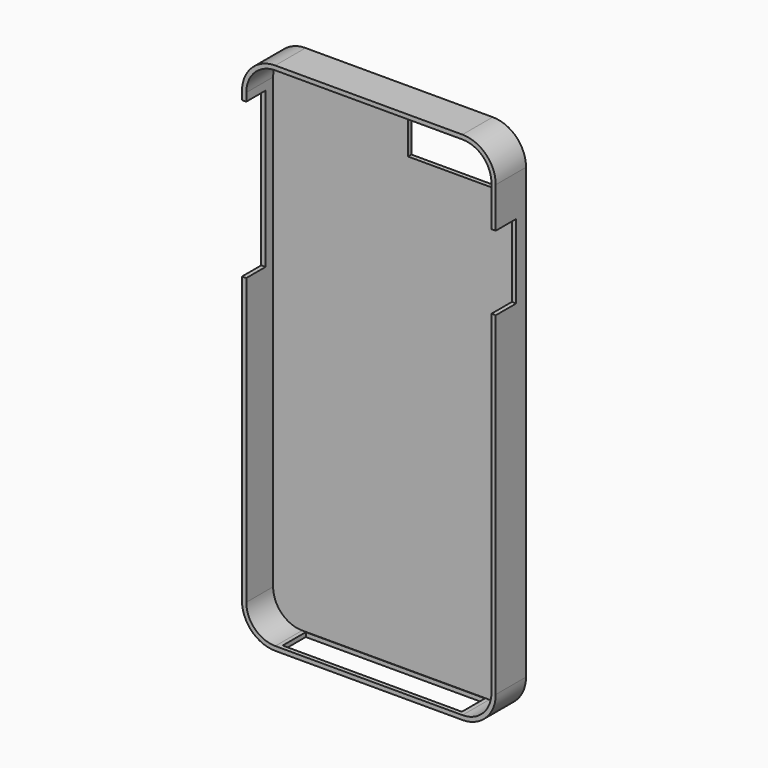
from build123d import *

# Parameters (mm, degrees)
F0_W      = 68.1
F0_H      = 138.3
F1_DEPTH  = 5.08
F2_R      = 8.93259
F3_T      = -1.15
F4_W      = 24.09836
F4_H      = 13.196725
F5_DEPTH  = 12.5
F6_W      = 48.097777
F6_H      = 7.753484
F7_DEPTH  = 12.5
F8_W      = 10.118616
F8_H      = 41.666549
F9_DEPTH  = 12.5
F10_W     = 6.856616
F10_H     = 19.977162
F11_DEPTH = 12.5


with BuildPart() as f1:
    # F0 (on Front) → F1 (new body, symmetric)
    with BuildSketch(Plane.XZ):
        Rectangle(F0_W, F0_H)
    extrude(amount=F1_DEPTH, both=True)

    # F2
    f2_edges = [f1.edges().sort_by_distance(p)[0] for p in [
        (-34.05, 0, 69.15),
        (34.05, 0, 69.15),
        (34.05, 0, -69.15),
        (-34.05, 0, -69.15),
    ]]
    fillet(f2_edges, radius=F2_R)

    # F3
    f3_openings = [f1.faces().sort_by_distance(p)[0] for p in [
        (0, -5.08, 0),
    ]]
    offset(amount=F3_T, openings=f3_openings)

    # F4 (on face) → F5 (cut, symmetric)
    with BuildSketch(Plane.XZ):
        with Locations((15.348363, 59.815576)):
            Rectangle(F4_W, F4_H)
    extrude(amount=F5_DEPTH, both=True, mode=Mode.SUBTRACT)

    # F6 (on face) → F7 (cut, symmetric)
    with BuildSketch(Plane(origin=(0, 0, -69.15), x_dir=(1, 0, 0), z_dir=(0, 0, -1))):
        with Locations((0.003194, 0.064824)):
            Rectangle(F6_W, F6_H)
        with Locations((0.003194, 0.064824)):
            Rectangle(F6_W, F6_H)
    extrude(amount=F7_DEPTH, both=True, mode=Mode.SUBTRACT)

    # F8 (on face) → F9 (cut, symmetric)
    with BuildSketch(Plane(origin=(-34.05, 0, 0), x_dir=(0, -1, 0), z_dir=(-1, 0, 0))):
        with Locations((3.675346, 37.227889)):
            Rectangle(F8_W, F8_H)
    extrude(amount=F9_DEPTH, both=True, mode=Mode.SUBTRACT)

    # F10 (on face) → F11 (cut, symmetric)
    with BuildSketch(Plane.YZ.offset(34.05)):
        with Locations((-1.651692, 39.359077)):
            Rectangle(F10_W, F10_H)
    extrude(amount=F11_DEPTH, both=True, mode=Mode.SUBTRACT)


solid = f1.part
